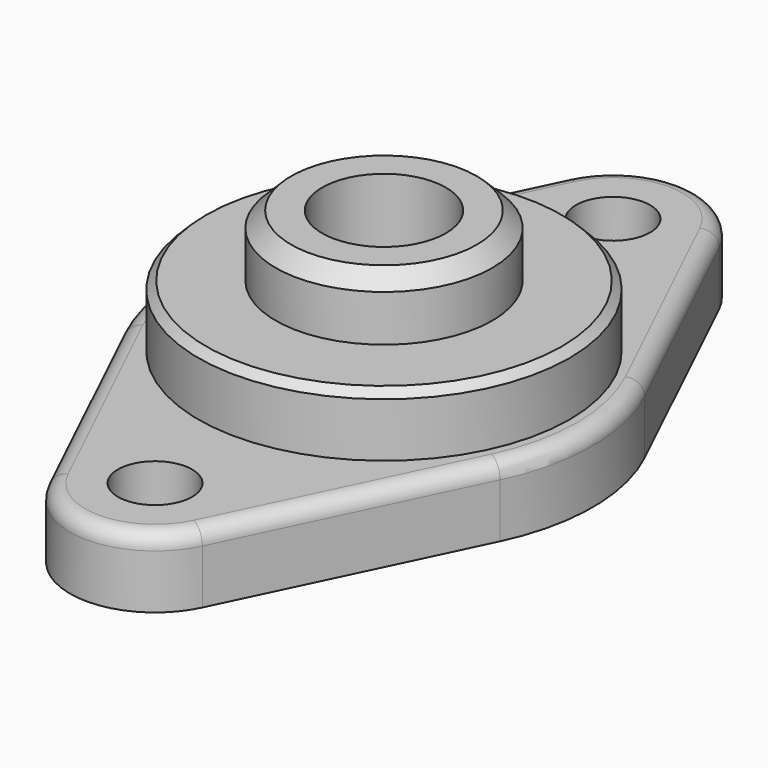
from build123d import *

# Parameters (mm, degrees)
SKETCH_R        = 2.4
SKETCH_R_2      = 10
PAD_DEPTH       = 4.5
SKETCH001_R     = 12
SKETCH001_R_2   = 6.1
PAD001_DEPTH    = 4
SKETCH002_R     = 7
SKETCH002_R_2   = 4
PAD002_DEPTH    = 12
FILLET_R        = 1
CHAMFER_SIZE    = 1
CHAMFER001_SIZE = 0.5


with BuildPart() as part:
    # Sketch → Pad (new body)
    with BuildSketch(Plane.XY):
        with BuildLine():
            ThreePointArc((12.172496, -5.837838), (13.5, 0), (12.172496, 5.837838))
            Line((4.959165, 20.878378), (12.172496, 5.837838))
            ThreePointArc((4.959165, 20.878378), (0, 24), (-4.959165, 20.878378))
            Line((-12.172496, 5.837838), (-4.959165, 20.878378))
            ThreePointArc((-12.172496, 5.837838), (-13.5, 0), (-12.172496, -5.837838))
            Line((-4.959165, -20.878378), (-12.172496, -5.837838))
            ThreePointArc((-4.959165, -20.878378), (0, -24), (4.959165, -20.878378))
            Line((4.959165, -20.878378), (12.172496, -5.837838))
        make_face()
        with Locations((0, 18.5)):
            Circle(SKETCH_R, mode=Mode.SUBTRACT)
        with Locations((0, -18.5)):
            Circle(SKETCH_R, mode=Mode.SUBTRACT)
        Circle(SKETCH_R_2, mode=Mode.SUBTRACT)
    extrude(amount=PAD_DEPTH)

    # Sketch001 (on Face13 of Pad) → Pad001 (join)
    with BuildSketch(Plane.XY.offset(4.5)):
        Circle(SKETCH001_R)
        Circle(SKETCH001_R_2, mode=Mode.SUBTRACT)
    extrude(amount=PAD001_DEPTH)

    # Sketch002 → Pad002 (join)
    with BuildSketch(Plane.XY.offset(0.5)):
        Circle(SKETCH002_R)
        Circle(SKETCH002_R_2, mode=Mode.SUBTRACT)
    extrude(amount=PAD002_DEPTH)

    # Fillet
    fillet_edges = [part.edges().sort_by_distance(p)[0] for p in [
        (-8.56583, -13.358108, 4.5),
        (-13.5, 0, 4.5),
        (-8.56583, 13.358108, 4.5),
        (0, 24, 4.5),
        (8.56583, 13.358108, 4.5),
        (8.56583, -13.358108, 4.5),
        (0, -24, 4.5),
        (13.5, 0, 4.5),
    ]]
    fillet(fillet_edges, radius=FILLET_R)

    # Chamfer
    chamfer_edges = [part.edges().sort_by_distance(p)[0] for p in [
        (-7, 0, 12.5),
    ]]
    chamfer(chamfer_edges, length=CHAMFER_SIZE)

    # Chamfer001
    chamfer001_edges = [part.edges().sort_by_distance(p)[0] for p in [
        (-12, 0, 8.5),
    ]]
    chamfer(chamfer001_edges, length=CHAMFER001_SIZE)


solid = part.part
